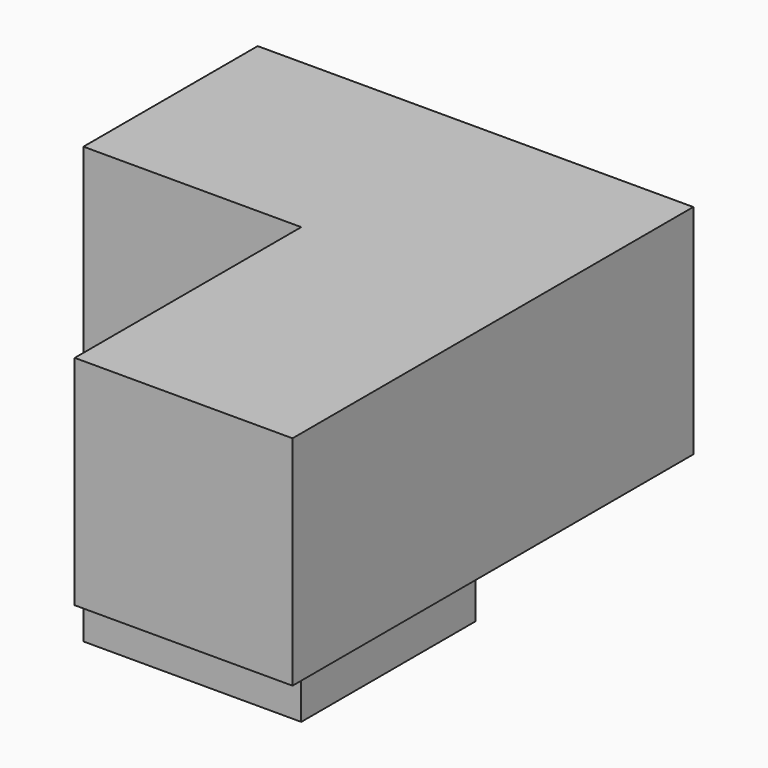
from build123d import *

# Parameters (mm, degrees)
F0_W     = 58.42
F0_H     = 25.4
F1_DEPTH = 25.4
F2_W     = 25.4
F2_H     = 25.4
F3_DEPTH = 25.4
F4_W     = 25.4
F4_H     = 25.4
F5_DEPTH = 25.4


with BuildPart() as f1:
    # F0 (on Right) → F1 (new body)
    with BuildSketch(Plane.YZ):
        with Locations((-33.78506, 17.145792)):
            Rectangle(F0_W, F0_H)
    extrude(amount=F1_DEPTH)

    # F2 (on face) → F3 (join)
    with BuildSketch(Plane(origin=(0, 0, 0), x_dir=(0, -1, 0), z_dir=(-1, 0, 0))):
        with Locations((17.27506, 17.145792)):
            Rectangle(F2_W, F2_H)
    extrude(amount=F3_DEPTH)

    # F4 (on face) → F5 (join)
    with BuildSketch(Plane(origin=(0, 0, 4.445792), x_dir=(1, 0, 0), z_dir=(0, 0, -1))):
        with Locations((-12.7, 17.27506)):
            Rectangle(F4_W, F4_H)
    extrude(amount=F5_DEPTH)


solid = f1.part
